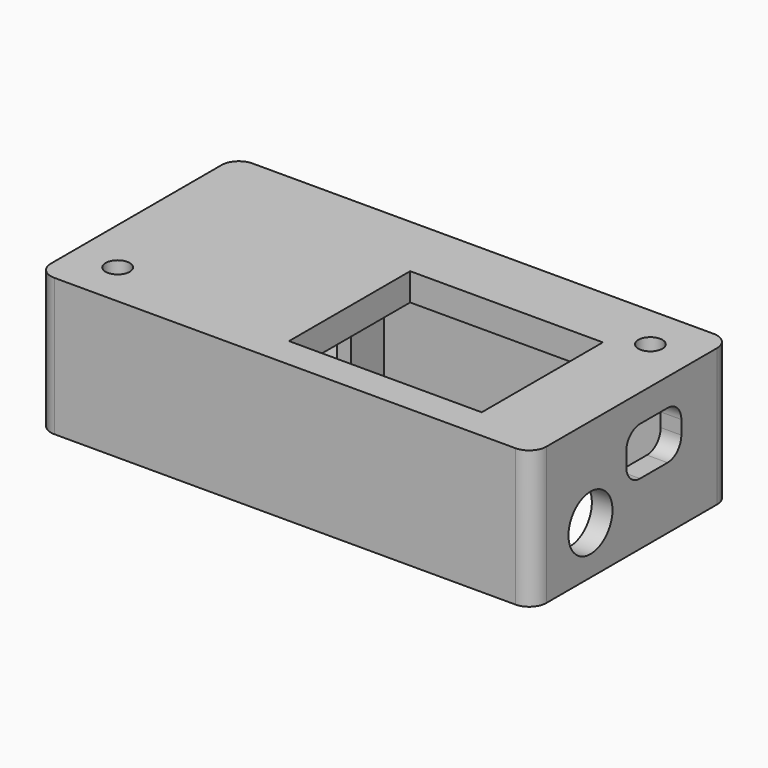
from build123d import *

# Parameters (mm, degrees)
PAD_DEPTH            = 20
POCKET_DEPTH         = 16
SKETCH002_R          = 1.75
SKETCH002_W          = 28
SKETCH002_H          = 22
POCKET001_DEPTH      = 4
POCKET002_DEPTH      = 3
SKETCH004_W          = 27
SKETCH004_H          = 18
POCKET003_DEPTH      = 3
SKETCH005_R          = 1
POCKET004_DEPTH      = 10
SKETCH007_W          = 13
SKETCH007_H          = 11
PAD001_DEPTH         = 6
POCKET005_DEPTH      = 5
POCKET005_DEPTH_BACK = 10
SKETCH008_R          = 4
POCKET006_DEPTH      = 3
SKETCH009_R          = 3.5
POCKET007_DEPTH      = 3


with BuildPart() as part:
    # Sketch001 (on Sketch) → Pad (new body)
    with BuildSketch(Plane.XY):
        with BuildLine():
            Line((-33.5, 18), (33.5, 18))
            ThreePointArc((36, 15.5), (35.267767, 17.267767), (33.5, 18))
            Line((36, 15.5), (36, -15.5))
            ThreePointArc((33.5, -18), (35.267767, -17.267767), (36, -15.5))
            Line((33.5, -18), (-33.5, -18))
            ThreePointArc((-36, -15.5), (-35.267767, -17.267767), (-33.5, -18))
            Line((-36, -15.5), (-36, 15.5))
            ThreePointArc((-33.5, 18), (-35.267767, 17.267767), (-36, 15.5))
        make_face()
    extrude(amount=PAD_DEPTH)

    # Sketch → Pocket (cut)
    with BuildSketch(Plane.XY):
        with BuildLine():
            Line((-30, 15), (30, 15))
            ThreePointArc((33, 12), (32.12132, 14.12132), (30, 15))
            Line((33, 12), (33, -12))
            ThreePointArc((30, -15), (32.12132, -14.12132), (33, -12))
            Line((30, -15), (-30, -15))
            ThreePointArc((-33, -12), (-32.12132, -14.12132), (-30, -15))
            Line((-33, -12), (-33, 12))
            ThreePointArc((-30, 15), (-32.12132, 14.12132), (-33, 12))
        make_face()
    extrude(amount=POCKET_DEPTH, mode=Mode.SUBTRACT)

    # Sketch002 (on Sketch) → Pocket001 (cut)
    with BuildSketch(Plane.XY.offset(20)):
        with Locations((-29.5, -11.5)):
            Circle(SKETCH002_R)
        with Locations((29.5, 11.5)):
            Circle(SKETCH002_R)
        with Locations((11, -2.5)):
            Rectangle(SKETCH002_W, SKETCH002_H)
    extrude(amount=-POCKET001_DEPTH, mode=Mode.SUBTRACT)

    # Sketch003 (on Face15 of Pocket001) → Pocket002 (cut)
    with BuildSketch(Plane(origin=(33, 0, 0), x_dir=(0, -1, 0), z_dir=(-1, 0, 0))):
        with BuildLine():
            Line((-6.5, 16), (-1.5, 16))
            ThreePointArc((1, 13.5), (0.267767, 15.267767), (-1.5, 16))
            Line((1, 13.5), (1, 11.5))
            ThreePointArc((-1.5, 9), (0.267767, 9.732233), (1, 11.5))
            Line((-1.5, 9), (-6.5, 9))
            ThreePointArc((-9, 11.5), (-8.267767, 9.732233), (-6.5, 9))
            Line((-9, 11.5), (-9, 13.5))
            ThreePointArc((-6.5, 16), (-8.267767, 15.267767), (-9, 13.5))
        make_face()
    extrude(amount=-POCKET002_DEPTH, mode=Mode.SUBTRACT)

    # Sketch004 (on Face33 of Pocket002) → Pocket003 (cut)
    with BuildSketch(Plane(origin=(0, 0, 16), x_dir=(1, 0, 0), z_dir=(0, 0, -1))):
        with Locations((-18.5, 0)):
            Rectangle(SKETCH004_W, SKETCH004_H)
    extrude(amount=-POCKET003_DEPTH, mode=Mode.SUBTRACT)

    # Sketch005 → Pocket004 (cut)
    with BuildSketch(Plane.XY):
        with Locations((-33.7, -15.7)):
            Circle(SKETCH005_R)
        with Locations((33.7, -15.7)):
            Circle(SKETCH005_R)
        with Locations((33.7, 15.7)):
            Circle(SKETCH005_R)
        with Locations((-33.7, 15.7)):
            Circle(SKETCH005_R)
    extrude(amount=POCKET004_DEPTH, mode=Mode.SUBTRACT)

    # Sketch007 (on Face18 of Pocket004) → Pad001 (join)
    with BuildSketch(Plane.XZ.offset(-15)):
        with Locations((-18.5, 5.5)):
            Rectangle(SKETCH007_W, SKETCH007_H)
    extrude(amount=PAD001_DEPTH)

    # Sketch006 (on Face18 of Pocket004) → Pocket005 (cut, two sides)
    with BuildSketch(Plane.XZ.offset(-15)) as pocket005_sk:
        with BuildLine():
            Line((-21, 10), (-16, 10))
            ThreePointArc((-14, 8), (-14.585786, 9.414214), (-16, 10))
            Line((-14, 8), (-14, 3))
            ThreePointArc((-16, 1), (-14.585786, 1.585786), (-14, 3))
            Line((-16, 1), (-21, 1))
            ThreePointArc((-23, 3), (-22.414214, 1.585786), (-21, 1))
            Line((-23, 3), (-23, 8))
            ThreePointArc((-21, 10), (-22.414214, 9.414214), (-23, 8))
        make_face()
    extrude(amount=-POCKET005_DEPTH, mode=Mode.SUBTRACT)
    extrude(pocket005_sk.sketch, amount=POCKET005_DEPTH_BACK, mode=Mode.SUBTRACT)

    # Sketch008 → Pocket006 (cut)
    with BuildSketch(Plane.YZ.offset(36)):
        with Locations((-7.5, 7)):
            Circle(SKETCH008_R)
    extrude(amount=-POCKET006_DEPTH, mode=Mode.SUBTRACT)

    # Sketch009 (on Face1 of Pocket006) → Pocket007 (cut)
    with BuildSketch(Plane(origin=(-36, 0, 0), x_dir=(0, -1, 0), z_dir=(-1, 0, 0))):
        with Locations((7, 0)):
            Circle(SKETCH009_R)
    extrude(amount=-POCKET007_DEPTH, mode=Mode.SUBTRACT)


solid = part.part
